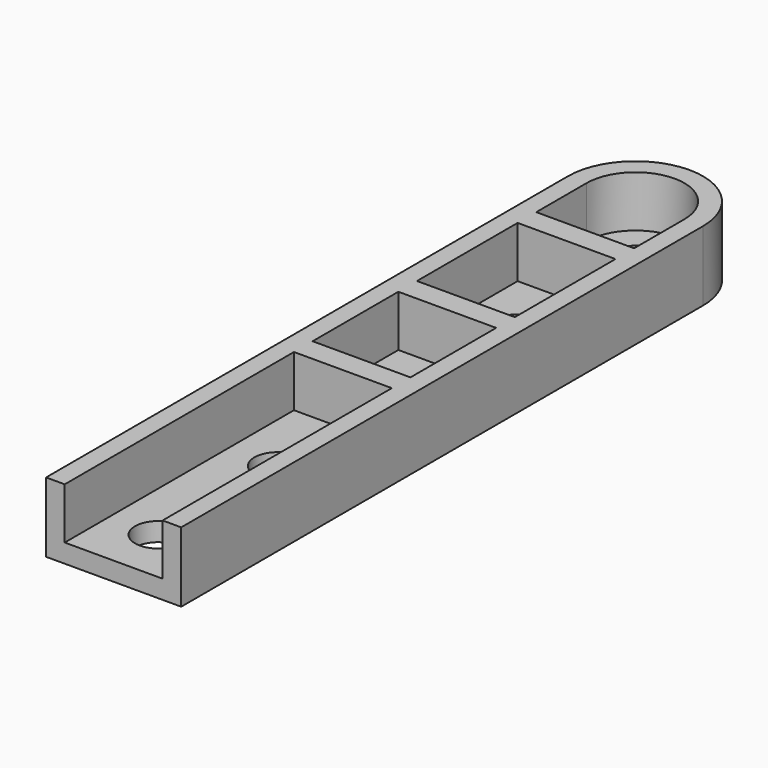
from build123d import *

# Parameters (mm, degrees)
F1_DEPTH = 9.525
F2_T     = -2.54
F3_W     = 13.335
F3_H     = 2.54
F4_DEPTH = 6.985
F5_R     = 3.175
F6_DEPTH = 2.541
F7_W     = 13.335
F7_H     = 3.175
F8_DEPTH = 6.985


with BuildPart() as f1:
    # F0 (on Top) → F1 (new body)
    with BuildSketch(Plane.XY):
        with BuildLine():
            Line((-9.2075, 88.9), (-9.2075, 0))
            Line((-9.2075, 0), (9.2075, 0))
            Line((9.2075, 0), (9.2075, 88.9))
            ThreePointArc((9.2075, 88.9), (0, 98.1075), (-9.2075, 88.9))
        make_face()
    extrude(amount=F1_DEPTH)

    # F2
    f2_openings = [f1.faces().sort_by_distance(p)[0] for p in [
        (0, 48.087743, 9.525),
    ]]
    offset(amount=F2_T, openings=f2_openings)

    # F3 (on face) → F4 (cut, through all)
    with BuildSketch(Plane.XY.offset(9.525)):
        with Locations((0, 1.27)):
            Rectangle(F3_W, F3_H)
    extrude(amount=-F4_DEPTH, mode=Mode.SUBTRACT)

    # F5 (on face) → F6 (cut, through all)
    with BuildSketch(Plane.XY.offset(2.54)):
        with Locations((0, 88.9)):
            Circle(F5_R)
        with Locations((0, 68.58)):
            Circle(F5_R)
        with Locations((0, 48.26)):
            Circle(F5_R)
        with Locations((0, 27.94)):
            Circle(F5_R)
        with Locations((0, 7.62)):
            Circle(F5_R)
    extrude(amount=-F6_DEPTH, mode=Mode.SUBTRACT)

    # F7 (on face) → F8 (join, through all)
    with BuildSketch(Plane.XY.offset(2.54)):
        with Locations((0, 78.74)):
            Rectangle(F7_W, F7_H)
        with Locations((0, 58.42)):
            Rectangle(F7_W, F7_H)
        with Locations((0, 40.64)):
            Rectangle(F7_W, F7_H)
    extrude(amount=F8_DEPTH)


solid = f1.part
